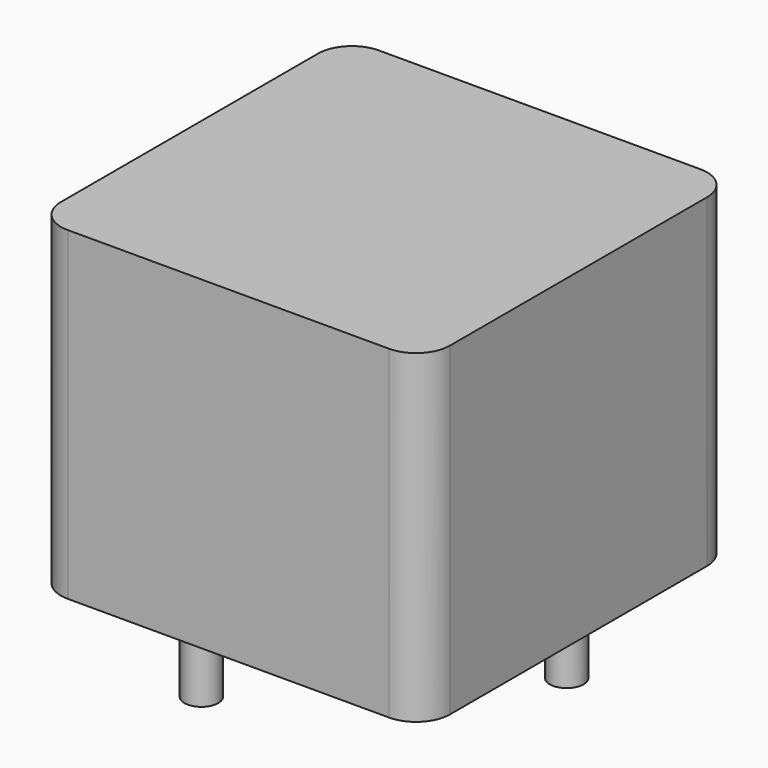
from build123d import *

# Parameters (mm, degrees)
SKETCH001_R  = 0.5
PAD001_DEPTH = 3.5
SKETCH_W     = 11.5
SKETCH_H     = 11.5
PAD_DEPTH    = 9.6
FILLET_R     = 1


with BuildPart() as pad001:
    # Sketch001 → Pad001 (new body)
    with BuildSketch(Plane.XY.offset(0.5)):
        Circle(SKETCH001_R)
        with Locations((6, 6)):
            Circle(SKETCH001_R)
    extrude(amount=-PAD001_DEPTH)


with BuildPart() as fillet_body:
    # Sketch → Pad (new body)
    with BuildSketch(Plane.XY.offset(0.1)):
        with Locations((3, 3)):
            Rectangle(SKETCH_W, SKETCH_H)
    extrude(amount=PAD_DEPTH)

    # Fillet
    fillet_edges = [fillet_body.edges().sort_by_distance(p)[0] for p in [
        (8.75, -2.75, 4.9),
        (8.75, 8.75, 4.9),
        (-2.75, -2.75, 4.9),
        (-2.75, 8.75, 4.9),
    ]]
    fillet(fillet_edges, radius=FILLET_R)


solid = Compound([pad001.part, fillet_body.part])
